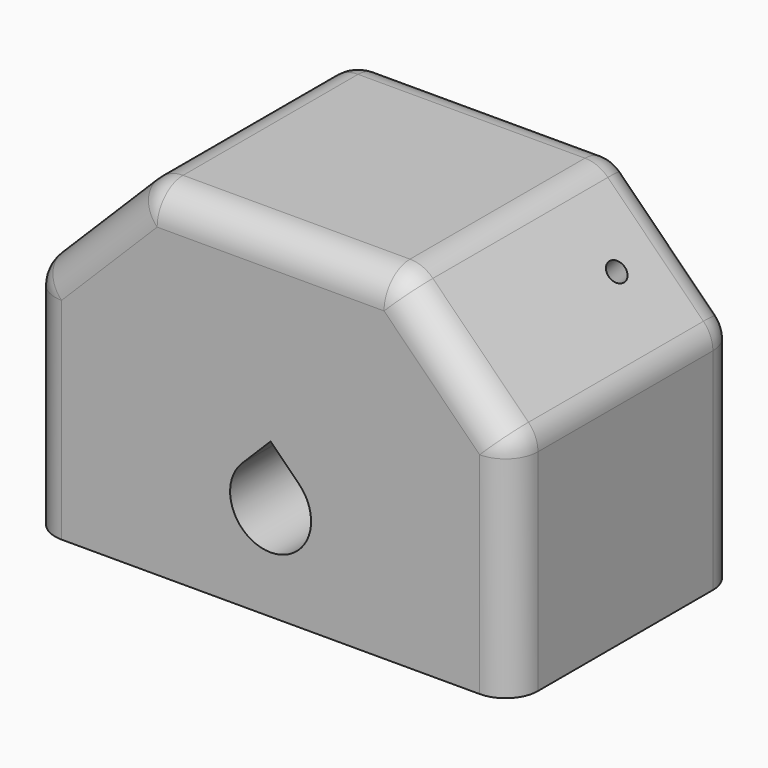
from build123d import *

# Parameters (mm, degrees)
F1_DEPTH      = 31.75
F1_DEPTH_BACK = 12.7
F2_R          = 3.175
F3_DEPTH      = 25.4
F4_R          = 1.5875
F5_DEPTH      = 25.4
F7_DEPTH      = 25.4
F8_R          = 5.08
F9_SIZE       = 0.508


with BuildPart() as f1:
    # F0 (on Front) → F1 (new body, two sides)
    with BuildSketch(Plane.XZ) as f1_sk:
        Polygon((-37.854384, 0), (0, 0), (37.854384, 0), (37.854384, 35.133872), (19.893872, 53.094384), (0, 53.094384), (-19.893872, 53.094384), (-37.854384, 35.133872), align=None)
    extrude(amount=F1_DEPTH)
    extrude(f1_sk.sketch, amount=-F1_DEPTH_BACK)

    # F2 (on face) → F3 (cut)
    with BuildSketch(Plane(origin=(-36.494128, 0, 36.494128), x_dir=(0, -1, 0), z_dir=(-0.707107, 0, 0.707107))):
        with Locations((0, 10.776307)):
            Circle(F2_R)
    extrude(amount=-F3_DEPTH, mode=Mode.SUBTRACT)

    # F4 (on face) → F5 (cut)
    with BuildSketch(Plane(origin=(36.494128, 0, 36.494128), x_dir=(0.707107, 0, -0.707107), z_dir=(0.707107, 0, 0.707107))):
        with Locations((-10.776307, 0)):
            Circle(F4_R)
    extrude(amount=-F5_DEPTH, mode=Mode.SUBTRACT)

    # F6 (on face) → F7 (cut)
    with BuildSketch(Plane.XZ.offset(31.75)):
        with BuildLine():
            Line((0, 24.220256), (-4.490128, 19.730128))
            ThreePointArc((-4.490128, 19.730128), (0, 8.89), (4.490128, 19.730128))
            Line((4.490128, 19.730128), (0, 24.220256))
        make_face()
    extrude(amount=-F7_DEPTH, mode=Mode.SUBTRACT)

    # F8
    f8_edges = [f1.edges().sort_by_distance(p)[0] for p in [
        (-37.854384, 12.7, 17.566936),
        (-28.874128, 12.7, 44.114128),
        (0, 12.7, 53.094384),
        (28.874128, 12.7, 44.114128),
        (37.854384, 12.7, 17.566936),
        (-19.893872, -9.525, 53.094384),
        (-37.854384, -9.525, 35.133872),
        (-28.874128, -31.75, 44.114128),
        (-37.854384, -31.75, 17.566936),
        (0, -31.75, 53.094384),
        (19.893872, -9.525, 53.094384),
        (28.874128, -31.75, 44.114128),
        (37.854384, -31.75, 17.566936),
        (37.854384, -9.525, 35.133872),
    ]]
    fillet(f8_edges, radius=F8_R)

    # F9
    f9_edges = [f1.edges().sort_by_distance(p)[0] for p in [
        (0, -6.35, 8.89),
        (-10.913616, 3.175, 26.153616),
        (9.791084, 0, 27.276148),
    ]]
    chamfer(f9_edges, length=F9_SIZE)


solid = f1.part
